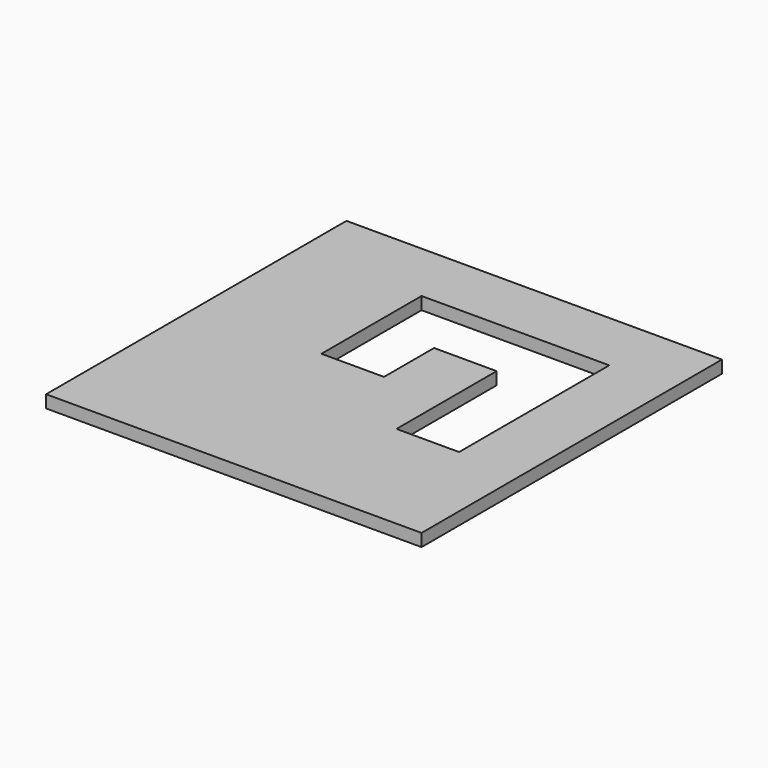
from build123d import *

# Parameters (mm, degrees)
SKETCH_W     = 90
SKETCH_H     = 90
PAD_DEPTH    = 3
POCKET_DEPTH = 3


with BuildPart() as part:
    # Sketch → Pad (new body)
    with BuildSketch(Plane.XY):
        with Locations((-45, 45)):
            Rectangle(SKETCH_W, SKETCH_H)
    extrude(amount=PAD_DEPTH)

    # Sketch002 (on Face6 of Pad) → Pocket (cut)
    with BuildSketch(Plane.XY.offset(3)):
        Polygon((-60, 75), (-60, 45), (-45, 45), (-45, 60), (-30, 60), (-30, 30), (-15, 30), (-15, 75), align=None)
    extrude(amount=-POCKET_DEPTH, mode=Mode.SUBTRACT)


solid = part.part
